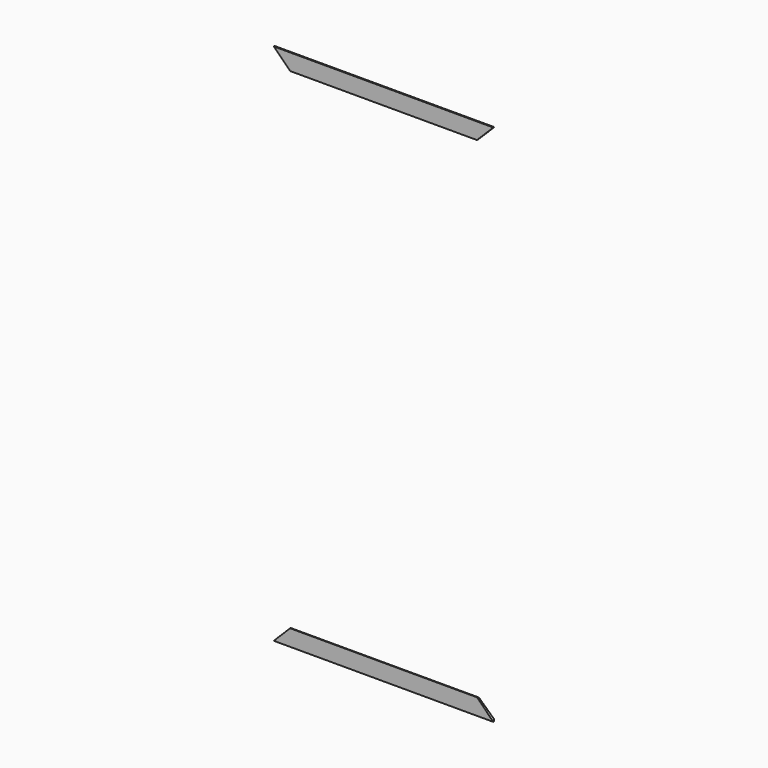
from build123d import *

# Parameters (mm, degrees)
EXTRUDE039436_DEPTH = 500
EXTRUDE039434_DEPTH = 500


with BuildPart() as extrude039436_internal_inferior:
    # Sketch225 (on Sketch) → Extrude039436 (new body, symmetric)
    with BuildSketch(Plane.XZ):
        Polygon((-200, 200), (200, 200), (600, -200), (-600, -200), align=None)
    extrude(amount=EXTRUDE039436_DEPTH, both=True)


with BuildPart() as compound051:
    # Sketch223 (on Sketch) → Extrude039434 (new body, symmetric)
    with BuildSketch(Plane.XZ):
        Polygon((-600, 2300), (600, 2300), (200, 1900), (-200, 1900), align=None)
    extrude(amount=EXTRUDE039434_DEPTH, both=True)

    # Compound051: union Extrude039436_internal_inferior_
    add(extrude039436_internal_inferior.part)


with BuildPart() as trim_window_internal_horizontal:
    # Sweep012: sweep along a path in Sketch195
    with BuildLine(Plane.XZ) as sweep012_path:
        Line((-400, 2100), (-400, 0))
        Line((-400, 0), (400, 0))
        Line((400, 0), (400, 2100))
        Line((400, 2100), (-400, 2100))
    # Clone2D028 (on Sketch) → Sweep012 (sweep)
    with BuildSketch(Plane.ZY):
        with BuildLine():
            Line((-61.571224, 10), (-5.678418, 7))
            ThreePointArc((-5.678418, 7), (-1.645147, 5.136003), (0, 1.008624))
            Line((0, 1.008624), (0, 0))
            Line((0, 0), (-70, 0))
            Line((-70, 0), (-70, 2.011499))
            ThreePointArc((-70, 2.011499), (-67.503171, 7.81797), (-61.571224, 10))
        make_face()
    sweep(path=sweep012_path.line, is_frenet=True, transition=Transition.RIGHT)

    # Common002: intersect Compound051_
    add(compound051.part, mode=Mode.INTERSECT)


solid = trim_window_internal_horizontal.part
